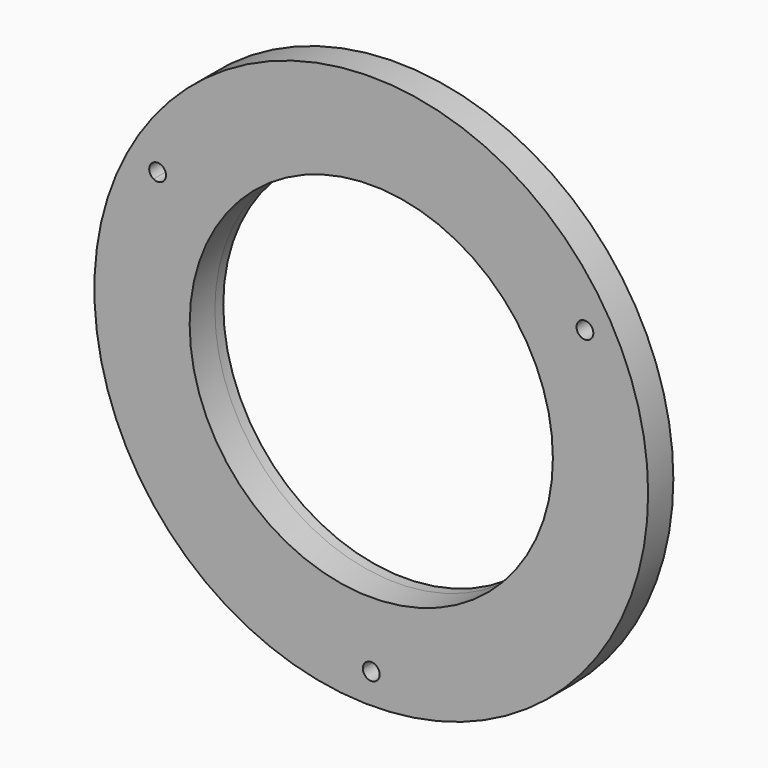
from build123d import *

# Parameters (mm, degrees)
F0_R     = 24.375
F1_DEPTH = 1
F2_R     = 26.375
F2_R_2   = 24.375
F3_DEPTH = 3
F4_R     = 0.8
F5_DEPTH = 25
F6_R     = 17.3
F7_DEPTH = 25


with BuildPart() as f1:
    # F0 (on Front) → F1 (new body)
    with BuildSketch(Plane.XZ):
        Circle(F0_R)
    extrude(amount=F1_DEPTH)

    # F4 (on face) → F5 (cut)
    with BuildSketch(Plane.XZ.offset(4)):
        with Locations((-20.3515969889, 11.75)):
            Circle(F4_R)
        with Locations((20.3515969889, 11.75)):
            Circle(F4_R)
        with Locations((0, -23.5)):
            Circle(F4_R)
    extrude(amount=-F5_DEPTH, mode=Mode.SUBTRACT)


with BuildPart() as f3:
    # F2 (on face) → F3 (new body)
    with BuildSketch(Plane.XZ.offset(1)):
        Circle(F2_R)
        Circle(F2_R_2, mode=Mode.SUBTRACT)
        Circle(F2_R_2)
        with BuildLine():
            ThreePointArc((23.5, 0), (16.897444724, -16.331759299), (0.7998841021, -23.4863829787))
            ThreePointArc((0.7998841021, -23.4863829787), (0.799971025, -23.4931912428), (0.8, -23.5))
            ThreePointArc((0.8, -23.5), (-0.0068087572, -24.299971025), (-0.7998841021, -23.4863829787))
            ThreePointArc((-0.7998841021, -23.4863829787), (-20.3515969889, -11.75), (-20.7397463536, 11.0504715369))
            ThreePointArc((-20.7397463536, 11.0504715369), (-21.044417312, 12.15), (-19.9398622516, 12.4359114418))
            ThreePointArc((-19.9398622516, 12.4359114418), (0, 23.5), (19.9398622516, 12.4359114418))
            ThreePointArc((19.9398622516, 12.4359114418), (20.7456859447, 12.4461996086), (21.1515969889, 11.75))
            ThreePointArc((21.1515969889, 11.75), (21.0409878402, 11.3441179308), (20.7397463536, 11.0504715369))
            ThreePointArc((20.7397463536, 11.0504715369), (22.7994960395, 5.6949960795), (23.5, 0))
        make_face(mode=Mode.SUBTRACT)
        with BuildLine():
            ThreePointArc((-0.7998841021, -23.4863829787), (-0.5608504181, -22.9295205451), (0, -22.7))
            ThreePointArc((0, -22.7), (0.5608504181, -22.9295205451), (0.7998841021, -23.4863829787))
            ThreePointArc((0.7998841021, -23.4863829787), (16.897444724, -16.331759299), (23.5, 0))
            ThreePointArc((23.5, 0), (22.7994960395, 5.6949960795), (20.7397463536, 11.0504715369))
            ThreePointArc((20.7397463536, 11.0504715369), (19.6587766659, 11.35), (19.9398622516, 12.4359114418))
            ThreePointArc((19.9398622516, 12.4359114418), (0, 23.5), (-19.9398622516, 12.4359114418))
            ThreePointArc((-19.9398622516, 12.4359114418), (-19.6553973804, 12.1440889558), (-19.5515969889, 11.75))
            ThreePointArc((-19.5515969889, 11.75), (-19.9457149197, 11.0606091487), (-20.7397463536, 11.0504715369))
            ThreePointArc((-20.7397463536, 11.0504715369), (-20.3515969889, -11.75), (-0.7998841021, -23.4863829787))
        make_face()
        with BuildLine():
            ThreePointArc((0, -22.375), (-15.821514229, 15.821514229), (22.375, 0))
            ThreePointArc((22.375, 0), (15.821514229, -15.821514229), (0, -22.375))
        make_face(mode=Mode.SUBTRACT)
        with BuildLine():
            ThreePointArc((0, -22.375), (15.821514229, -15.821514229), (22.375, 0))
            ThreePointArc((22.375, 0), (-15.821514229, 15.821514229), (0, -22.375))
        make_face()
    extrude(amount=F3_DEPTH)


with BuildPart() as f7_tool:
    # F6 (on face) → F7 (new body)
    with BuildSketch(Plane.XZ.offset(4)):
        Circle(F6_R)
    extrude(amount=-F7_DEPTH)


with BuildPart() as f1_1:
    add(f1.part)

    # F7: cut by f7_tool
    add(f7_tool.part, mode=Mode.SUBTRACT)


with BuildPart() as f3_1:
    add(f3.part)

    # F7: cut by f7_tool
    add(f7_tool.part, mode=Mode.SUBTRACT)


solid = Compound([f1_1.part, f3_1.part])
